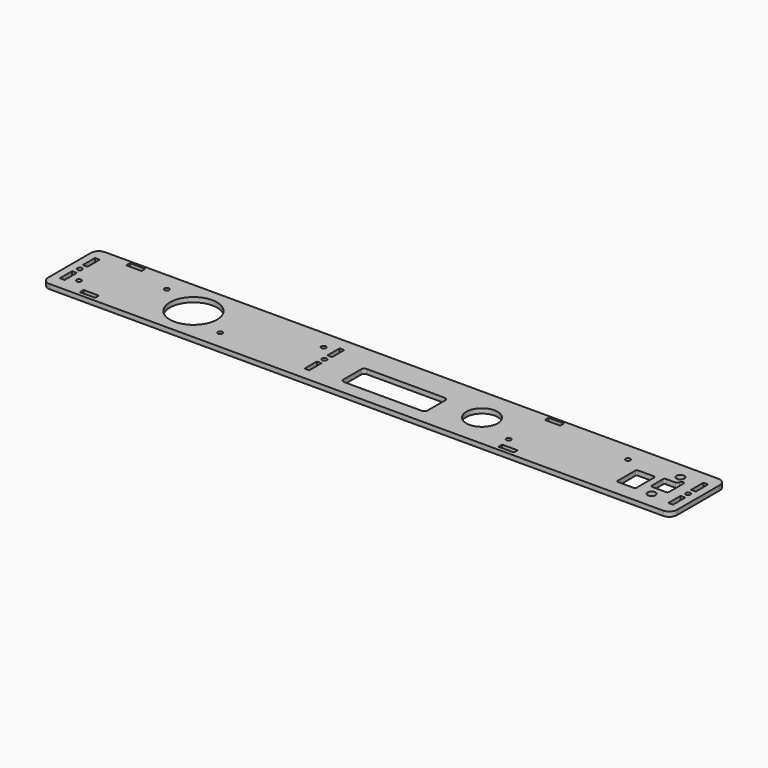
from build123d import *

# Parameters (mm, degrees)
SKETCH001002010_W         = 401
SKETCH001002010_H         = 44
SKETCH001002010_R         = 1.5
SKETCH001002010_R_2       = 15
SKETCH001002010_R_3       = 10
SKETCH001002010_W_2       = 3
SKETCH001002010_H_2       = 9.8
SKETCH001002010_W_3       = 9.8
SKETCH001002010_H_3       = 3
PAD015_DEPTH              = 3
POCKET009_DEPTH           = 3
SKETCH001002027_R         = 2.5
POCKET010_DEPTH           = 3
FILLET028_R               = 5
FILLET028_PLACEMENT_ANGLE = 90


with BuildPart() as part:
    # Sketch001002010 → Pad015 (new body)
    with BuildSketch(Plane.XZ.offset(-106)):
        Rectangle(SKETCH001002010_W, SKETCH001002010_H)
        with Locations((-194, 0)):
            Circle(SKETCH001002010_R, mode=Mode.SUBTRACT)
        with Locations((194, 0)):
            Circle(SKETCH001002010_R, mode=Mode.SUBTRACT)
        with Locations((-121.5, 0)):
            Circle(SKETCH001002010_R_2, mode=Mode.SUBTRACT)
        with Locations((-146.5, 10)):
            Circle(SKETCH001002010_R, mode=Mode.SUBTRACT)
        with Locations((-186.5, -10)):
            Circle(SKETCH001002010_R, mode=Mode.SUBTRACT)
        with Locations((87.5, -10)):
            Circle(SKETCH001002010_R, mode=Mode.SUBTRACT)
        with Locations((147.5, 10)):
            Circle(SKETCH001002010_R, mode=Mode.SUBTRACT)
        with Locations((-38, 0)):
            Circle(SKETCH001002010_R, mode=Mode.SUBTRACT)
        with Locations((-96.5, -10)):
            Circle(SKETCH001002010_R, mode=Mode.SUBTRACT)
        with Locations((-46.5, 10)):
            Circle(SKETCH001002010_R, mode=Mode.SUBTRACT)
        with Locations((62.5, 0)):
            Circle(SKETCH001002010_R_3, mode=Mode.SUBTRACT)
        with Locations((194, 9.1)):
            Rectangle(SKETCH001002010_W_2, SKETCH001002010_H_2, mode=Mode.SUBTRACT)
        with Locations((194, -9.1)):
            Rectangle(SKETCH001002010_W_2, SKETCH001002010_H_2, mode=Mode.SUBTRACT)
        with Locations((-194, 9.1)):
            Rectangle(SKETCH001002010_W_2, SKETCH001002010_H_2, mode=Mode.SUBTRACT)
        with Locations((-194, -9.1)):
            Rectangle(SKETCH001002010_W_2, SKETCH001002010_H_2, mode=Mode.SUBTRACT)
        with Locations((-173.5, -18)):
            Rectangle(SKETCH001002010_W_3, SKETCH001002010_H_3, mode=Mode.SUBTRACT)
        with Locations((93.5, -18)):
            Rectangle(SKETCH001002010_W_3, SKETCH001002010_H_3, mode=Mode.SUBTRACT)
        with Locations((-173.5, 19)):
            Rectangle(SKETCH001002010_W_3, SKETCH001002010_H_3, mode=Mode.SUBTRACT)
        with Locations((93.5, 19)):
            Rectangle(SKETCH001002010_W_3, SKETCH001002010_H_3, mode=Mode.SUBTRACT)
        with Locations((-38, 9.1)):
            Rectangle(SKETCH001002010_W_2, SKETCH001002010_H_2, mode=Mode.SUBTRACT)
        with Locations((-38, -9.1)):
            Rectangle(SKETCH001002010_W_2, SKETCH001002010_H_2, mode=Mode.SUBTRACT)
    extrude(amount=-PAD015_DEPTH)

    # Sketch001002026 → Pocket009 (cut)
    with BuildSketch(Plane.XZ.offset(-106)):
        with BuildLine():
            Line((-17, 3.05), (-17, -11.05))
            ThreePointArc((-17, -11.05), (-16.414214, -12.464214), (-15, -13.05))
            Line((-15, -13.05), (34.6, -13.05))
            ThreePointArc((34.6, -13.05), (36.014214, -12.464214), (36.6, -11.05))
            Line((36.6, -11.05), (36.6, 3.05))
            ThreePointArc((36.6, 3.05), (36.014214, 4.464214), (34.6, 5.05))
            Line((34.6, 5.05), (-15, 5.05))
            ThreePointArc((-15, 5.05), (-16.414214, 4.464214), (-17, 3.05))
        make_face()
    extrude(amount=-POCKET009_DEPTH, mode=Mode.SUBTRACT)

    # Sketch001002027 → Pocket010 (cut)
    with BuildSketch(Plane(origin=(0, 109, 0), x_dir=(-1, 0, 0), z_dir=(0, 1, 0))):
        with Locations((-179.85, 11.5)):
            Circle(SKETCH001002027_R)
        with Locations((-179.85, -11.5)):
            Circle(SKETCH001002027_R)
        with BuildLine():
            Line((-185.35, 7), (-185.35, -4.5))
            ThreePointArc((-185.35, -4.5), (-185.057107, -5.207107), (-184.35, -5.5))
            Line((-184.35, -5.5), (-175.35, -5.5))
            ThreePointArc((-175.35, -5.5), (-174.642893, -5.207107), (-174.35, -4.5))
            Line((-174.35, -4.5), (-174.35, 4.5))
            ThreePointArc((-174.35, 4.5), (-174.642893, 5.207107), (-175.35, 5.5))
            Line((-175.35, 5.5), (-181.35, 5.5))
            ThreePointArc((-182.85, 7), (-182.41066, 5.93934), (-181.35, 5.5))
            ThreePointArc((-182.85, 7), (-184.1, 8.25), (-185.35, 7))
        make_face()
        with BuildLine():
            Line((-169.85, 3), (-169.85, -11))
            ThreePointArc((-169.85, -11), (-169.557107, -11.707107), (-168.85, -12))
            Line((-168.85, -12), (-158.85, -12))
            ThreePointArc((-158.85, -12), (-158.142893, -11.707107), (-157.85, -11))
            Line((-157.85, -11), (-157.85, 3))
            ThreePointArc((-157.85, 3), (-158.142893, 3.707107), (-158.85, 4))
            Line((-158.85, 4), (-168.85, 4))
            ThreePointArc((-168.85, 4), (-169.557107, 3.707107), (-169.85, 3))
        make_face()
    extrude(amount=-POCKET010_DEPTH, mode=Mode.SUBTRACT)

    # Fillet028
    fillet028_edges = [part.edges().sort_by_distance(p)[0] for p in [
        (-200.5, 107.5, 22),
        (200.5, 107.5, 22),
        (-200.5, 107.5, -22),
        (200.5, 107.5, -22),
    ]]
    fillet(fillet028_edges, radius=FILLET028_R)


with BuildPart() as part_1:
    # Fillet028 placement: moved
    add(part.part.rotate(Axis((0, 0, 0), (-1, 0, 0)), FILLET028_PLACEMENT_ANGLE))


solid = part_1.part
